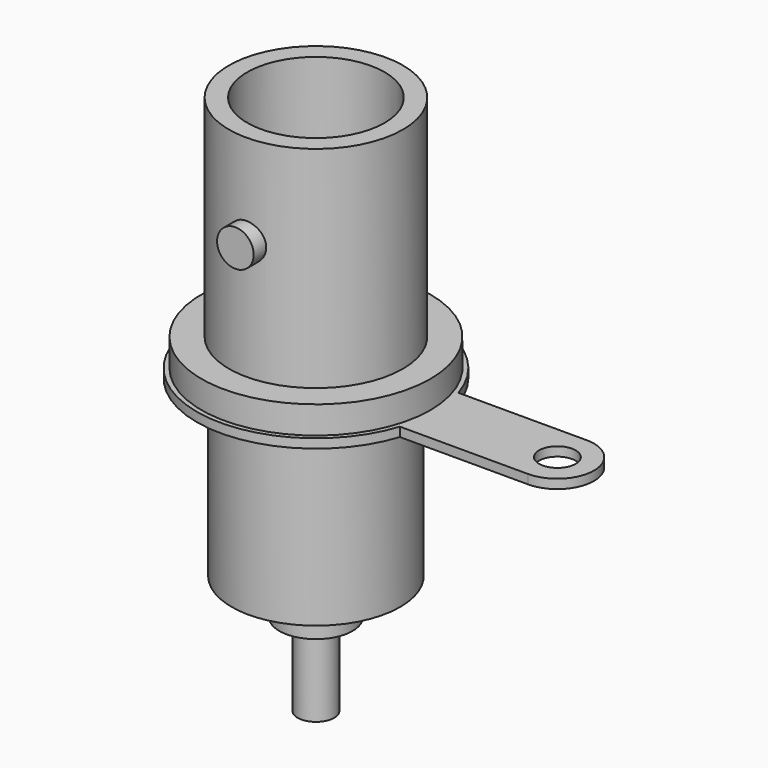
from build123d import *

# Parameters (mm, degrees)
SKETCH_R        = 6.25
PAD_DEPTH       = 1.5
SKETCH001_R     = 4.6
PAD001_DEPTH    = 10
SKETCH002_R     = 2
PAD002_DEPTH    = 2
SKETCH003_R     = 1
PAD003_DEPTH    = 4.5
SKETCH006_R     = 4.75
SKETCH006_R_2   = 3.75
PAD004_DEPTH    = 11.5
SKETCH007_R     = 2
PAD005_DEPTH    = 5.5
SKETCH004_R     = 0.75
POCKET_DEPTH    = 29.501
SKETCH008_R     = 1
PAD006_DEPTH    = 5.5
SKETCH009_R     = 1
POCKET001_DEPTH = 3.75
SKETCH010_R     = 6.5
SKETCH010_R_2   = 4.7
PAD007_DEPTH    = 0.5
SKETCH011_R     = 1
PAD008_DEPTH    = 0.5


with BuildPart() as part:
    # Sketch → Pad (new body)
    with BuildSketch(Plane.XY):
        Circle(SKETCH_R)
    extrude(amount=PAD_DEPTH)

    # Sketch001 (on Face2 of Pad) → Pad001 (join)
    with BuildSketch(Plane(origin=(0, 0, 0), x_dir=(1, 0, 0), z_dir=(0, 0, -1))):
        Circle(SKETCH001_R)
    extrude(amount=PAD001_DEPTH)

    # Sketch002 (on Face5 of Pad001) → Pad002 (join)
    with BuildSketch(Plane(origin=(0, 0, -10), x_dir=(1, 0, 0), z_dir=(0, 0, -1))):
        Circle(SKETCH002_R)
    extrude(amount=PAD002_DEPTH)

    # Sketch003 (on Face7 of Pad002) → Pad003 (join)
    with BuildSketch(Plane(origin=(0, 0, -12), x_dir=(1, 0, 0), z_dir=(0, 0, -1))):
        Circle(SKETCH003_R)
    extrude(amount=PAD003_DEPTH)

    # Sketch006 → Pad004 (join)
    with BuildSketch(Plane.XY.offset(1.5)):
        Circle(SKETCH006_R)
        Circle(SKETCH006_R_2, mode=Mode.SUBTRACT)
    extrude(amount=PAD004_DEPTH)

    # Sketch007 (on Face11 of Pad004) → Pad005 (join)
    with BuildSketch(Plane.XY.offset(1.5)):
        Circle(SKETCH007_R)
    extrude(amount=PAD005_DEPTH)

    # Sketch004 (on Face9 of Pad003) → Pocket (cut, through all)
    with BuildSketch(Plane(origin=(0, 0, -16.5), x_dir=(1, 0, 0), z_dir=(0, 0, -1))):
        Circle(SKETCH004_R)
    extrude(amount=-POCKET_DEPTH, mode=Mode.SUBTRACT)

    # Sketch008 → Pad006 (join, symmetric)
    with BuildSketch(Plane.XZ):
        with Locations((0, 8)):
            Circle(SKETCH008_R)
    extrude(amount=PAD006_DEPTH, both=True)

    # Sketch009 → Pocket001 (cut, symmetric)
    with BuildSketch(Plane.XZ):
        with Locations((0, 8)):
            Circle(SKETCH009_R)
    extrude(amount=POCKET001_DEPTH, both=True, mode=Mode.SUBTRACT)

    # Sketch010 (on Face2 of Pocket001) → Pad007 (join)
    with BuildSketch(Plane(origin=(0, 0, 0), x_dir=(1, 0, 0), z_dir=(0, 0, -1))):
        Circle(SKETCH010_R)
        Circle(SKETCH010_R_2, mode=Mode.SUBTRACT)
    extrude(amount=PAD007_DEPTH)

    # Sketch011 → Pad008 (join)
    with BuildSketch(Plane.XY):
        with BuildLine():
            Line((6.184658, 2), (13.184658, 2))
            ThreePointArc((13.184658, -2), (15.184658, 0), (13.184658, 2))
            Line((6.184658, -2), (13.184658, -2))
            ThreePointArc((6.184658, -2), (6.5, 0), (6.184658, 2))
        make_face()
        with Locations((13.184658, 0)):
            Circle(SKETCH011_R, mode=Mode.SUBTRACT)
    extrude(amount=-PAD008_DEPTH)


solid = part.part
